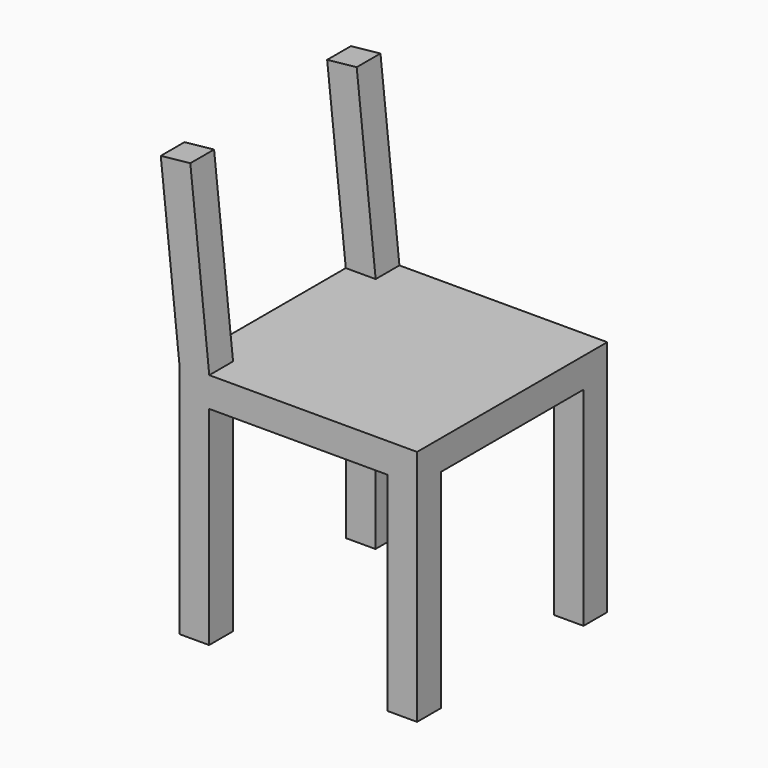
from build123d import *

# Parameters (mm, degrees)
F0_W      = 400
F0_H      = 400
F1_DEPTH  = 400
F2_W      = 300
F2_H      = 350
F3_DEPTH  = 400
F4_W      = 300
F4_H      = 350
F5_DEPTH  = 400
F6_W      = 50
F6_H      = 400
F7_DEPTH  = 300
F8_W      = 300
F8_H      = 300
F9_DEPTH  = 50
F10_DEPTH = 300
F11_DEPTH = 300
F15_W     = 50
F15_H     = 300
F16_DEPTH = 50
F17_DEPTH = 25
F18_W     = 50
F18_H     = 300
F19_DEPTH = 50
F20_DEPTH = 5.2552117633


with BuildPart() as f1:
    # F0 (on Top) → F1 (new body)
    with BuildSketch(Plane.XY):
        with Locations((-0.3617890179, 46.7100545251)):
            Rectangle(F0_W, F0_H)
    extrude(amount=F1_DEPTH)

    # F2 (on face) → F3 (cut)
    with BuildSketch(Plane(origin=(-200.3617890179, 0, 0), x_dir=(0, -1, 0), z_dir=(-1, 0, 0))):
        with Locations((-46.7100545251, 175)):
            Rectangle(F2_W, F2_H)
    extrude(amount=-F3_DEPTH, mode=Mode.SUBTRACT)

    # F4 (on face) → F5 (cut)
    with BuildSketch(Plane.XZ.offset(153.2899454749)):
        with Locations((-0.3617890179, 175)):
            Rectangle(F4_W, F4_H)
    extrude(amount=-F5_DEPTH, mode=Mode.SUBTRACT)

    # F6 (on face) → F7 (join)
    with BuildSketch(Plane.XY.offset(400)):
        with Locations((-175.3617890179, 46.7100545251)):
            Rectangle(F6_W, F6_H)
    extrude(amount=F7_DEPTH)

    # F8 (on face) → F9 (cut)
    with BuildSketch(Plane.YZ.offset(-150.3617890179)):
        with Locations((46.7100545251, 550)):
            Rectangle(F8_W, F8_H)
    extrude(amount=-F9_DEPTH, mode=Mode.SUBTRACT)

    # F10 (cut): a face of the model
    f10_faces = [f1.faces().sort_by_distance(p)[0] for p in [
        (-175.3617890179, -128.2899454749, 700),
    ]]
    extrude(f10_faces, amount=-F10_DEPTH, mode=Mode.SUBTRACT)

    # F11 (cut): a face of the model
    f11_faces = [f1.faces().sort_by_distance(p)[0] for p in [
        (-175.3617890179, 221.7100545251, 700),
    ]]
    extrude(f11_faces, amount=-F11_DEPTH, mode=Mode.SUBTRACT)

    # F15 (on face) → F16 (join)
    with BuildSketch(Plane(origin=(-156.5902579487, 0, -16.4582993118), x_dir=(0, 1, 0), z_dir=(0.9945218954, 0, 0.1045284633))):
        with Locations((-128.2899454749, 568.7522680509)):
            Rectangle(F15_W, F15_H)
    extrude(amount=F16_DEPTH)

    # F17 (add): a face of the model
    f17_faces = [f1.faces().sort_by_distance(p)[0] for p in [
        (-175.4987416337, -128.2899454749, 402.6132115817),
    ]]
    extrude(f17_faces, amount=F17_DEPTH)



with BuildPart() as f19:
    # F18 (on face) → F19 (new body)
    with BuildSketch(Plane(origin=(-156.5902579487, 0, -16.4582993118), x_dir=(0, 1, 0), z_dir=(0.9945218954, 0, 0.1045284633))):
        with Locations((221.7100545251, 568.7522680509)):
            Rectangle(F18_W, F18_H)
    extrude(amount=F19_DEPTH)


with BuildPart() as f1_1:
    add(f1.part)
    # F20 (add, through all): a face of the model
    f20_faces = [f19.part.faces().sort_by_distance(p)[0] for p in [
        (-175.4987416337, 221.7100545251, 402.6132115817),
    ]]

    add(f19.part)  # F20 merges F19
    extrude(f20_faces, amount=F20_DEPTH)


solid = f1_1.part
